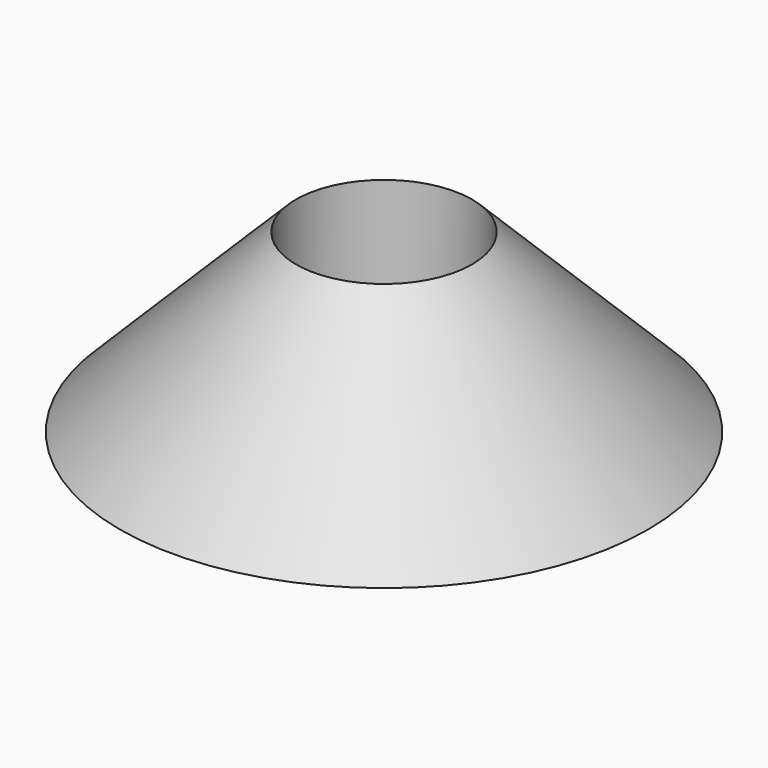
from build123d import *

# Parameters (mm, degrees)
F2_SIZE = 1.5


with BuildPart() as f1:
    # F0 (on Front) → F1 (revolve)
    with BuildSketch(Plane.XZ):
        Polygon((2.5, 5), (2.5, 0), (7.5, 0), align=None)
    revolve(axis=Axis((0, 0, 2.5), (0, 0, 1)))

    # F2
    f2_edges = [f1.edges().sort_by_distance(p)[0] for p in [
        (-2.5, 0, 0),
    ]]
    chamfer(f2_edges, length=F2_SIZE)


solid = f1.part
